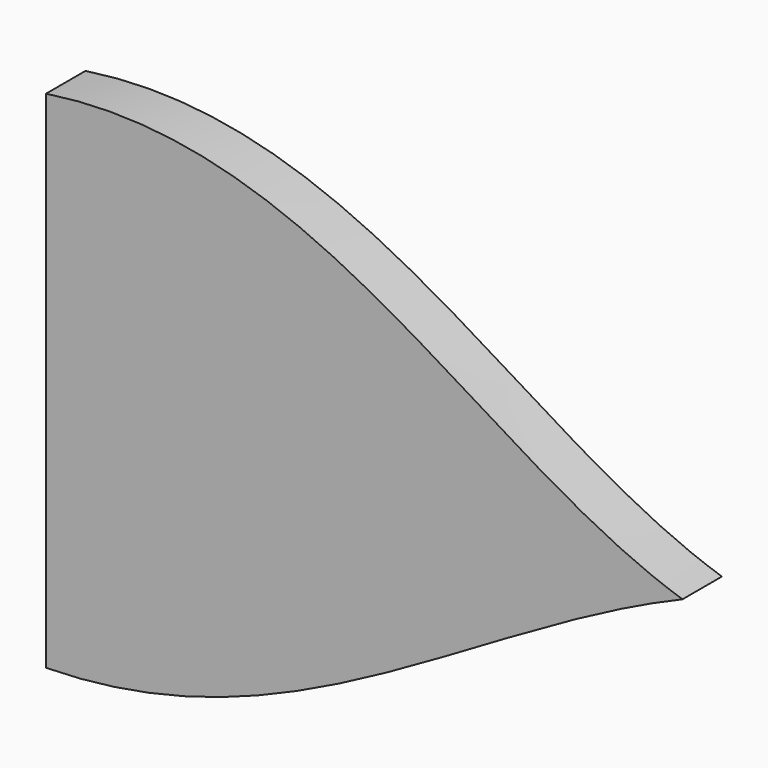
from build123d import *

# Parameters (mm, degrees)
F1_DEPTH = 3.175


with BuildPart() as f1:
    # F0 (on Front) → F1 (new body)
    with BuildSketch(Plane.XZ):
        with BuildLine():
            add(Edge.make_bspline(
                [(-20.383222, 15.345989), (-3.045769, 17.923178), (7.575373, 4.217218), (20.617511, 0)],
                knots=[0, 0, 0, 0, 43.778528, 43.778528, 43.778528, 43.778528], degree=3))
            Line((-20.383222, 15.345989), (-20.383222, -17.220307))
            add(Edge.make_bspline(
                [(-20.383222, -17.220307), (-4.451508, -16.986018), (6.9506, -5.740102), (20.617511, 0)],
                knots=[0, 0, 0, 0, 44.470205, 44.470205, 44.470205, 44.470205], degree=3))
        make_face()
    extrude(amount=F1_DEPTH)


solid = f1.part
